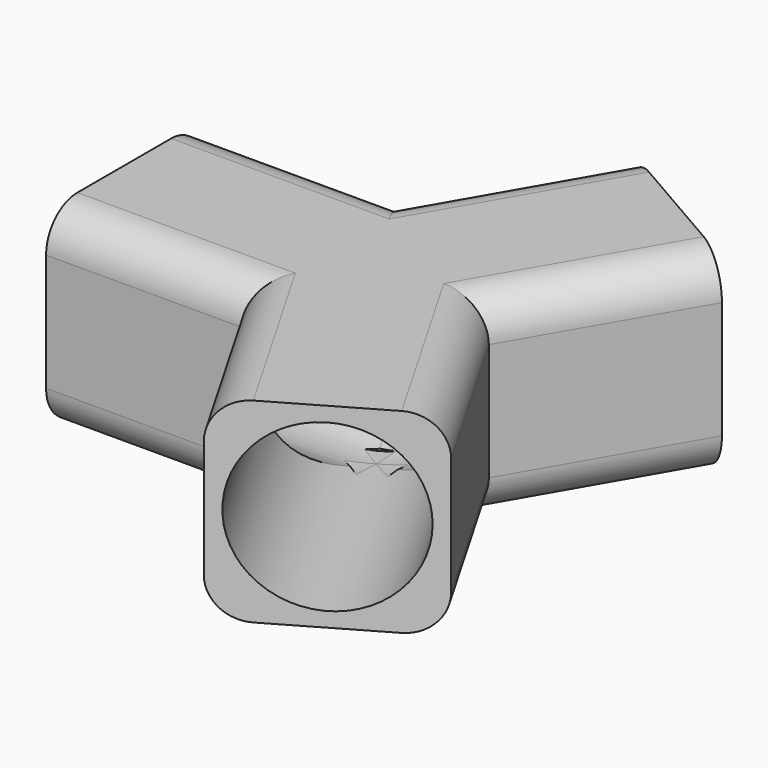
from build123d import *

# Parameters (mm, degrees)
F1_DEPTH = 25.4
F4_R     = 10.795
F5_DEPTH = 35.56
F3_R     = 10.795
F6_DEPTH = 35.56
F2_R     = 10.795
F7_DEPTH = 35.56
F8_R     = 5.08


with BuildPart() as f1:
    # F0 (on Top) → F1 (new body)
    with BuildSketch(Plane.XY):
        Polygon((16.03946, 21.997045), (-5.957585, 34.697045), (-18.657585, 12.7), (-44.057585, 12.7), (-44.057585, -12.7), (-18.657585, -12.7), (-5.957585, -34.697045), (16.03946, -21.997045), (3.33946, 0), align=None)
    extrude(amount=F1_DEPTH)

    # F4 (on face) → F5 (cut)
    with BuildSketch(Plane(origin=(-44.057585, 0, 0), x_dir=(0, -1, 0), z_dir=(-1, 0, 0))):
        with Locations((0, 12.7)):
            Circle(F4_R)
    extrude(amount=-F5_DEPTH, mode=Mode.SUBTRACT)

    # F3 (on face) → F6 (cut)
    with BuildSketch(Plane(origin=(13.534865, 23.443074, 0), x_dir=(-0.866025, 0.5, 0), z_dir=(0.5, 0.866025, 0))):
        with Locations((9.807943, 12.7)):
            Circle(F3_R)
    extrude(amount=-F6_DEPTH, mode=Mode.SUBTRACT)

    # F2 (on face) → F7 (cut)
    with BuildSketch(Plane(origin=(13.534865, -23.443074, 0), x_dir=(0.866025, 0.5, 0), z_dir=(0.5, -0.866025, 0))):
        with Locations((-9.807943, 12.7)):
            Circle(F2_R)
    extrude(amount=-F7_DEPTH, mode=Mode.SUBTRACT)

    # F8
    f8_edges = [f1.edges().sort_by_distance(p)[0] for p in [
        (-31.357585, -12.7, 25.4),
        (-12.307585, -23.698523, 25.4),
        (-31.357585, 12.7, 25.4),
        (-12.307585, 23.698523, 25.4),
        (9.68946, 10.998523, 25.4),
        (9.68946, -10.998523, 25.4),
        (-31.357585, -12.7, 0),
        (-12.307585, -23.698523, 0),
        (9.68946, -10.998523, 0),
        (9.68946, 10.998523, 0),
        (-31.357585, 12.7, 0),
        (-12.307585, 23.698523, 0),
    ]]
    fillet(f8_edges, radius=F8_R)


solid = f1.part
